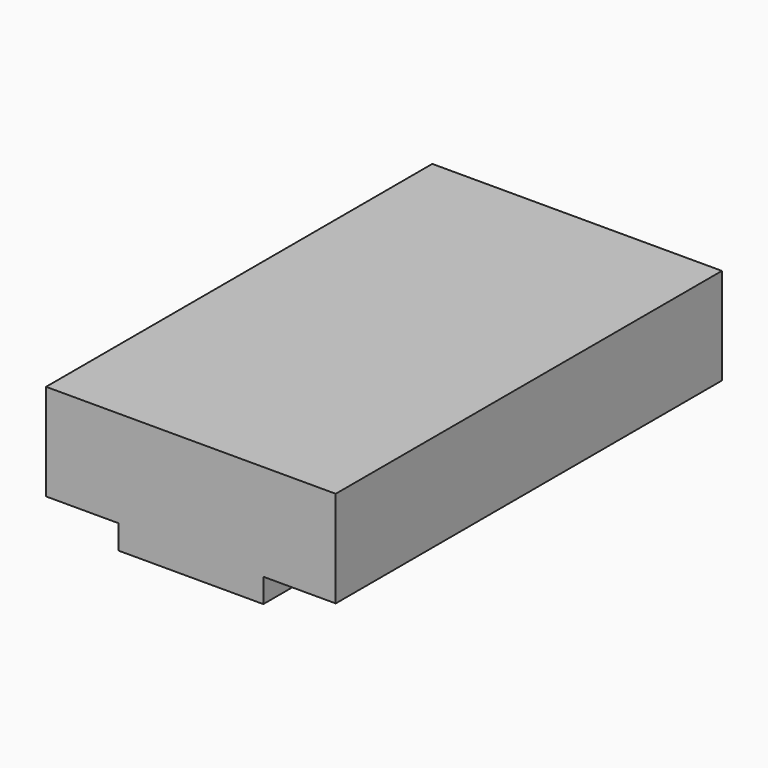
from build123d import *

# Parameters (mm, degrees)
F0_W     = 76.2
F0_H     = 12.7
F1_DEPTH = 254
F2_W     = 254
F2_H     = 25.4
F3_DEPTH = 152.401


with BuildPart() as f1:
    # F0 (on Front) → F1 (new body)
    with BuildSketch(Plane.XZ):
        Polygon((76.2, -38.1), (76.2, 38.1), (-76.2, 38.1), (-76.2, -38.1), (-38.1, -38.1), (-38.1, -25.4), (38.1, -25.4), (38.1, -38.1), align=None)
        with Locations((0, -31.75)):
            Rectangle(F0_W, F0_H)
        with Locations((0, -44.45)):
            Rectangle(F0_W, F0_H)
    extrude(amount=-F1_DEPTH)

    # F2 (on face) → F3 (cut, through all)
    with BuildSketch(Plane(origin=(-76.2, 0, 0), x_dir=(0, -1, 0), z_dir=(-1, 0, 0))):
        with Locations((-127, 25.4)):
            Rectangle(F2_W, F2_H)
    extrude(amount=-F3_DEPTH, mode=Mode.SUBTRACT)


solid = f1.part
